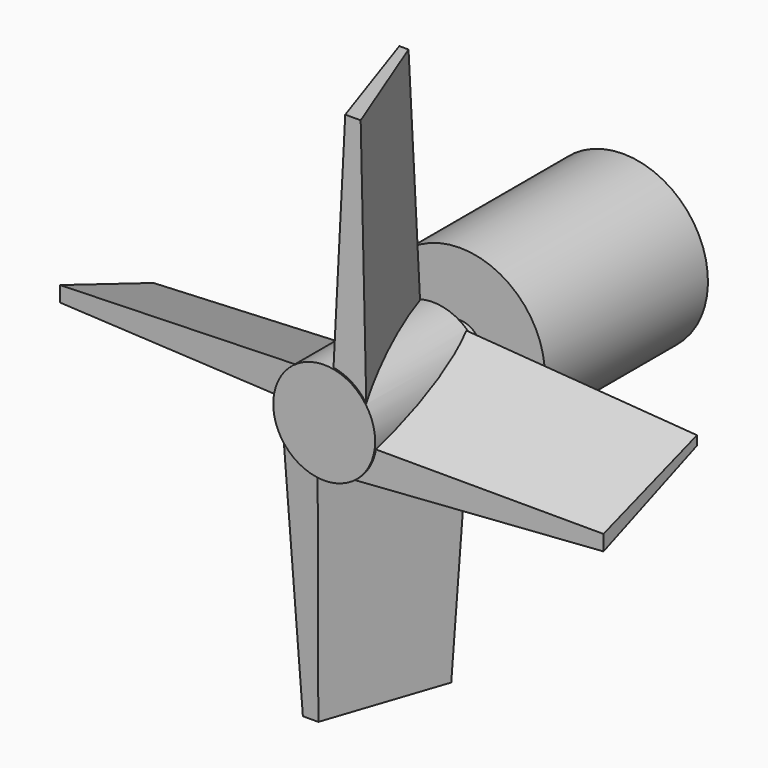
from build123d import *

# Parameters (mm, degrees)
F0_R     = 9.525
F1_DEPTH = 25.4
F3_DEPTH = 50.8
F3_TAPER = 2
F5_COUNT = 4
F6_R     = 3.96875
F7_DEPTH = 6.35
F8_W     = 38.1
F8_H     = 15.875


with BuildPart() as f1:
    # F0 (on Front) → F1 (new body)
    with BuildSketch(Plane.XZ):
        Circle(F0_R)
    extrude(amount=F1_DEPTH)



with BuildPart() as f3:
    # F2 (on Right) → F3 (new body)
    with BuildSketch(Plane.YZ):
        Polygon((0, 1.9194104331), (0, 7.3254335173), (-25.4, -1.2436575476), (-25.4, -8.0011864028), align=None)
    extrude(amount=F3_DEPTH, taper=F3_TAPER)


with BuildPart() as f1_1:
    add(f1.part)

    add(f3.part)  # F5 merges F3
    # F5: F3 ×4 about axis
    f5_axis = Axis((0, -12.7, 0), (0, 1, 0))
    for i in range(1, F5_COUNT):
        add(f3.part.rotate(f5_axis, i * 360 / F5_COUNT))

    # F6 (on face) → F7 (join)
    with BuildSketch(Plane(origin=(0, 0, 0), x_dir=(-1, 0, 0), z_dir=(0, 1, 0))):
        Circle(F6_R)
    extrude(amount=F7_DEPTH)


with BuildPart() as f9:
    # F8 (on Right) → F9 (revolve)
    with BuildSketch(Plane.YZ):
        with Locations((25.4, 7.9375)):
            Rectangle(F8_W, F8_H)
    revolve(axis=Axis((0, 25.4, 0), (0, 1, 0)))


solid = Compound([f1_1.part, f9.part])
